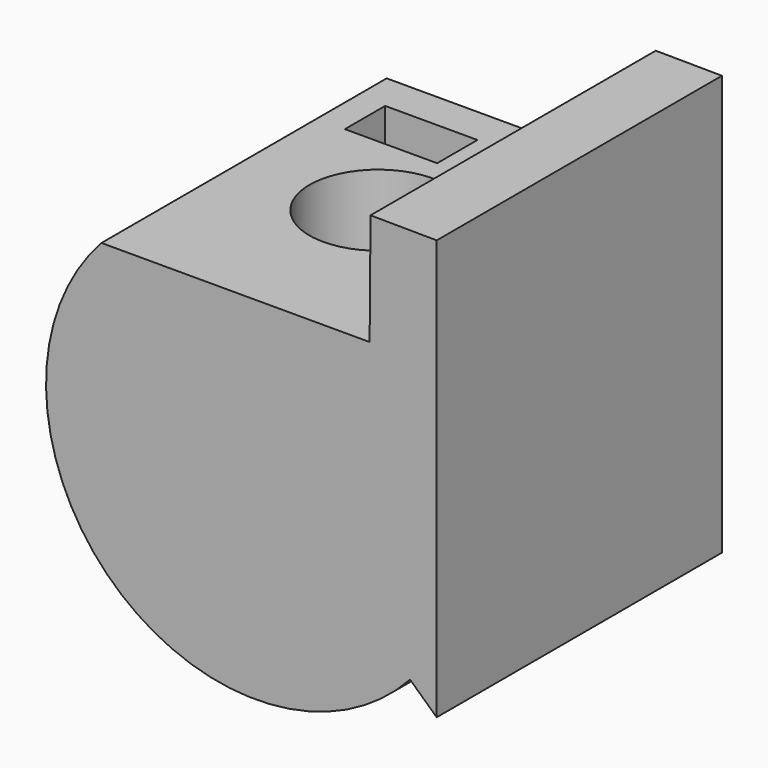
from build123d import *

# Parameters (mm, degrees)
F1_DEPTH = 85
F2_R     = 16.36591
F3_DEPTH = 43.1
F4_W     = 22
F4_H     = 12
F5_DEPTH = 11


with BuildPart() as f1:
    # F0 (on Front) → F1 (new body)
    with BuildSketch(Plane.XZ):
        with BuildLine():
            ThreePointArc((-55.954337, 58.221886), (-53.02819, -12.428221), (17.621917, -9.502074))
            Line((17.621917, -9.502074), (23.973947, -15.34886))
            Line((23.973947, -15.34886), (23.973947, 84.758947))
            Line((23.973947, 84.758947), (8.195213, 84.885334))
            Line((8.195213, 84.885334), (7.981639, 58.221886))
            Line((7.981639, 58.221886), (-55.954337, 58.221886))
        make_face()
    extrude(amount=F1_DEPTH)

    # F2 (on face) → F3 (cut)
    with BuildSketch(Plane.XY.offset(58.221886)):
        with Locations((-23.986349, -42.5)):
            Circle(F2_R)
    extrude(amount=-F3_DEPTH, mode=Mode.SUBTRACT)

    # F4 (on face) → F5 (cut)
    with BuildSketch(Plane.XY.offset(58.221886)):
        with Locations((-38.234517, -14.8571)):
            Rectangle(F4_W, F4_H)
    extrude(amount=-F5_DEPTH, mode=Mode.SUBTRACT)


solid = f1.part
